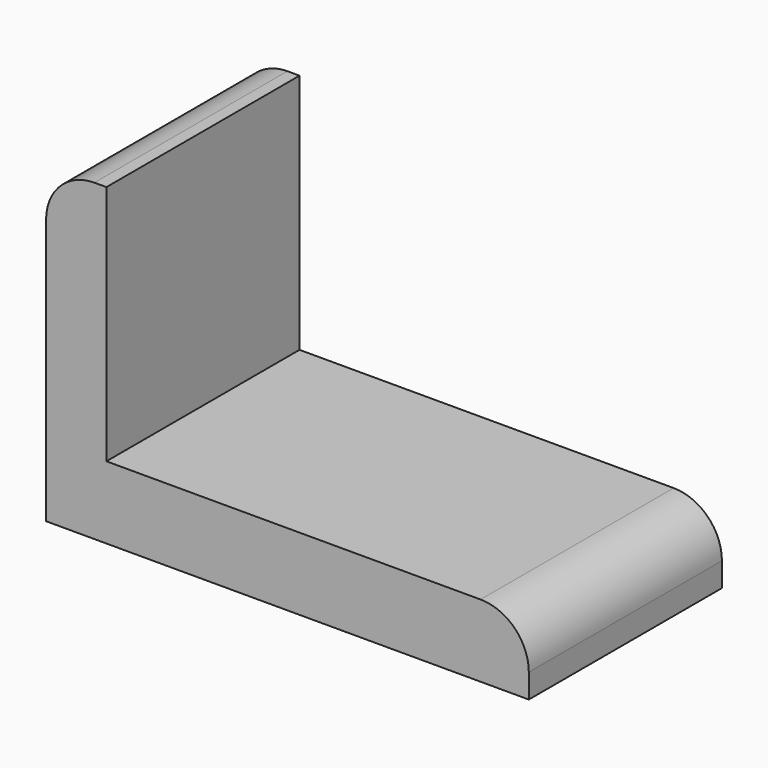
from build123d import *

# Parameters (mm, degrees)
F1_DEPTH = 25.4
F2_R     = 5.08


with BuildPart() as f1:
    # F0 (on Front) → F1 (new body)
    with BuildSketch(Plane.XZ):
        Polygon((0, 33.02), (0, 0), (50.8, 0), (50.8, 7.62), (6.35, 7.62), (6.35, 33.02), align=None)
    extrude(amount=-F1_DEPTH)

    # F2
    f2_edges = [f1.edges().sort_by_distance(p)[0] for p in [
        (0, 12.7, 33.02),
        (50.8, 12.7, 7.62),
    ]]
    fillet(f2_edges, radius=F2_R)


solid = f1.part
